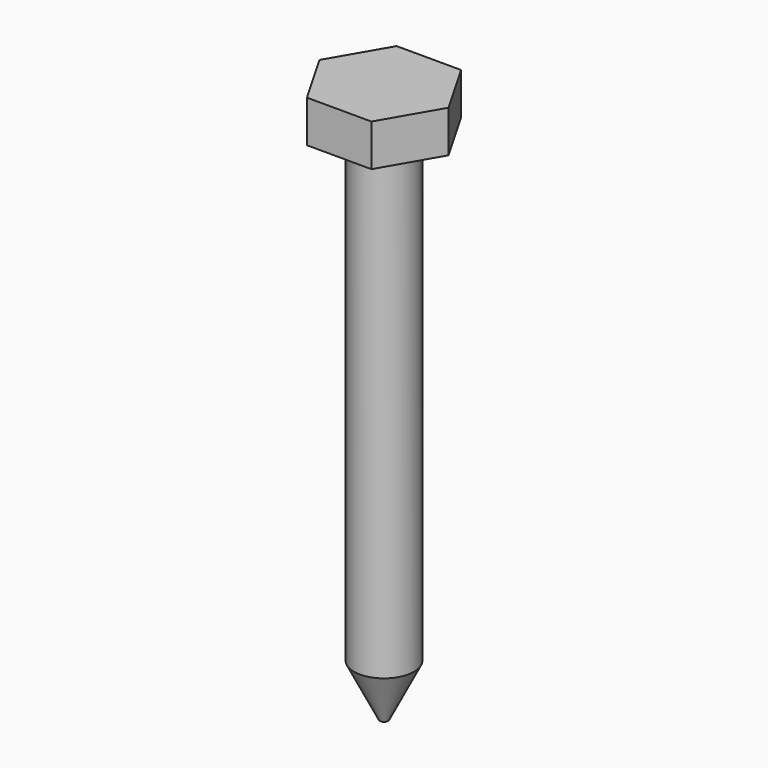
from build123d import *

# Parameters (mm, degrees)
F1_DEPTH = 4.1148
F2_R     = 2.9464
F3_DEPTH = 50.8
F4_SIZE2 = 5.08
F4_SIZE  = 2.54


with BuildPart() as f1:
    # F0 (on Top) → F1 (new body)
    with BuildSketch(Plane.XY):
        Polygon((3.1593841377, -5.4911205733), (6.3351419806, -0.0094533631), (3.1757578428, 5.4816672102), (-3.1593841377, 5.4911205733), (-6.3351419806, 0.0094533631), (-3.1757578428, -5.4816672102), align=None)
    extrude(amount=F1_DEPTH)

    # F2 (on face) → F3 (join)
    with BuildSketch(Plane(origin=(0, 0, 0), x_dir=(1, 0, 0), z_dir=(0, 0, -1))):
        Circle(F2_R)
    extrude(amount=F3_DEPTH)

    # F4
    f4_edges = [f1.edges().sort_by_distance(p)[0] for p in [
        (-2.9464, 0, -50.8),
    ]]
    f4_side = f1.faces().sort_by_distance((0, 0, -50.8))[0]
    chamfer(f4_edges, length=F4_SIZE, length2=F4_SIZE2, reference=f4_side)


solid = f1.part
